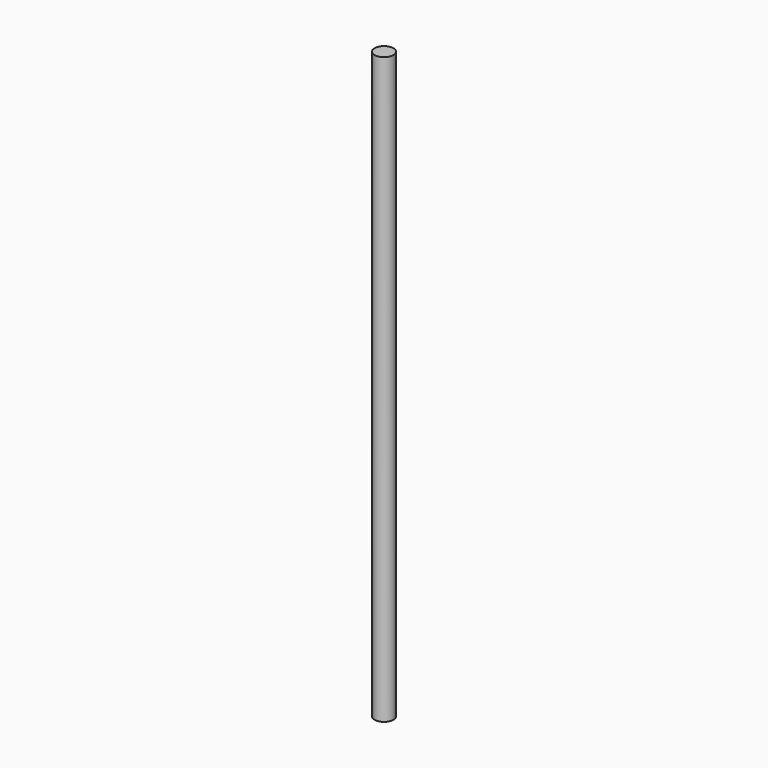
from build123d import *

# Parameters (mm, degrees)
SKETCH_R  = 4
PAD_DEPTH = 250


with BuildPart() as part:
    # Sketch → Pad (new body)
    with BuildSketch(Plane.XY):
        Circle(SKETCH_R)
    extrude(amount=PAD_DEPTH)


with BuildPart() as part_1:
    # Body placement: moved
    add(part.part.moved(Location((0, 0, -53))))


solid = part_1.part
